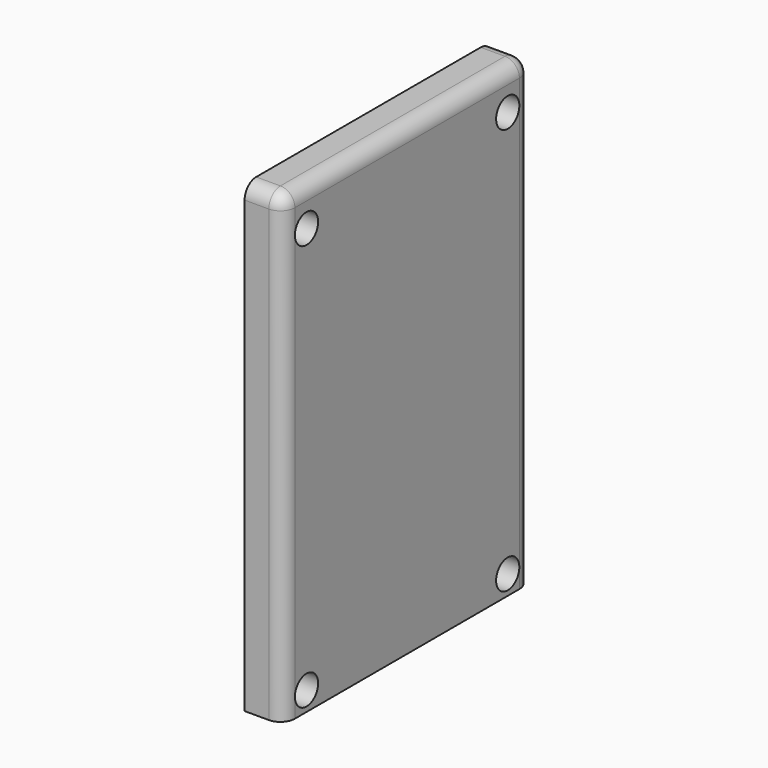
from build123d import *

# Parameters (mm, degrees)
F0_W           = 101.6
F0_H           = 152.4
F1_DEPTH       = 12.7
F2_D           = 6.35
F2_CBORE_D     = 9.525
F2_CBORE_DEPTH = 6.35
F3_R           = 4.7498


with BuildPart() as f1:
    # F0 (on Right) → F1 (new body)
    with BuildSketch(Plane.YZ):
        Rectangle(F0_W, F0_H)
    extrude(amount=-F1_DEPTH)

    # F2 (through all)
    with Locations(Plane.YZ):
        with Locations((-41.275, -69.85), (41.275, -69.85), (-41.275, 63.5), (41.275, 63.5)):
            CounterBoreHole(F2_D / 2, F2_CBORE_D / 2, F2_CBORE_DEPTH)

    # F3
    f3_edges = [f1.edges().sort_by_distance(p)[0] for p in [
        (0, 0, 76.2),
        (0, -50.8, 0),
        (0, 50.8, 0),
        (-6.35, -50.8, 76.2),
        (-6.35, 50.8, 76.2),
    ]]
    fillet(f3_edges, radius=F3_R)


solid = f1.part
